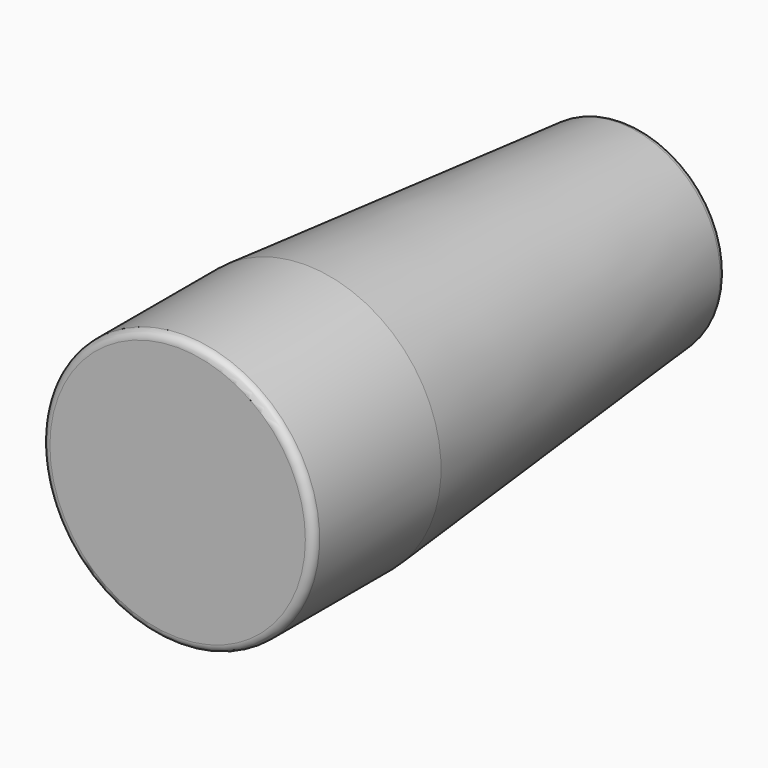
from build123d import *


with BuildPart() as f1:
    # F0 (on Right) → F1 (revolve)
    with BuildSketch(Plane.YZ):
        with BuildLine():
            Line((-25.4, 5.0038), (0, 5.0038))
            Line((0, 5.0038), (0, 7.435365))
            ThreePointArc((0, 7.435365), (-0.166829, 7.864364), (-0.579656, 8.067948))
            Line((-0.579656, 8.067948), (-31.75, 10.795))
            Line((-31.75, 10.795), (-43.815, 10.795))
            ThreePointArc((-43.815, 10.795), (-44.264013, 10.609013), (-44.45, 10.16))
            Line((-44.45, 10.16), (-44.45, 0))
            Line((-44.45, 0), (-28.060568, 0))
            Line((-28.060568, 0), (-25.4, 5.0038))
        make_face()
    revolve(axis=Axis((0, -36.255284, 0), (0, 1, 0)))


solid = f1.part
